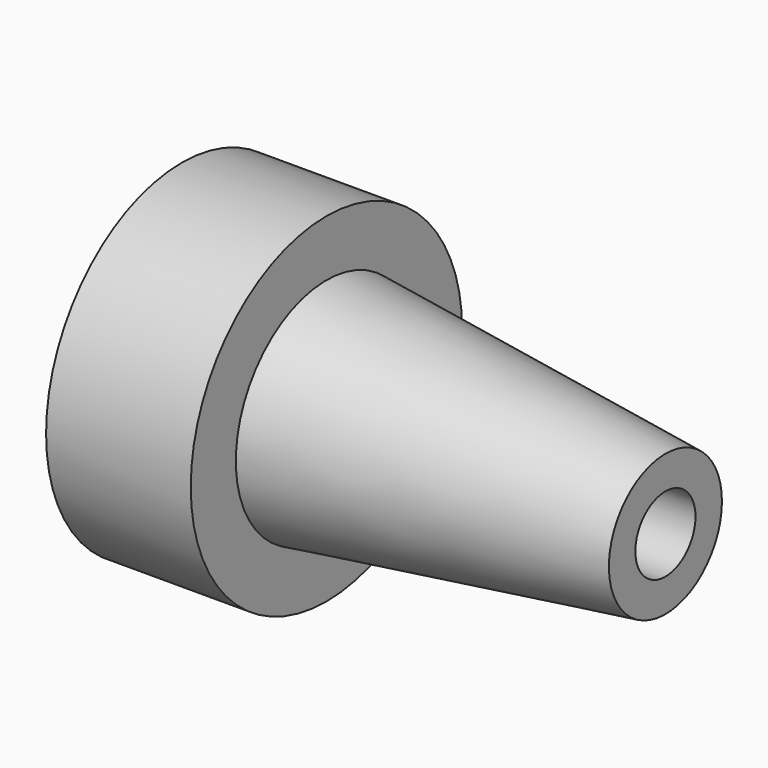
from build123d import *


with BuildPart() as f1:
    # F0 (on Top) → F1 (revolve)
    with BuildSketch(Plane.XY):
        with BuildLine():
            Line((-10.863817, 4.514776), (-14.713817, 4.514776))
            Line((-14.713817, 4.514776), (-14.713817, 2.514776))
            ThreePointArc((-14.713817, 2.514776), (-13.398503, 2.029725), (-12.447191, 1))
            Line((-12.447191, 1), (-1.843817, 1))
            Line((-1.843817, 1), (-1.843817, 1.879776))
            Line((-1.843817, 1.879776), (-10.863817, 3.014776))
            Line((-10.863817, 3.014776), (-10.863817, 4.514776))
        make_face()
    revolve(axis=Axis((-25.231563, 0, 0), (1, 0, 0)))


solid = f1.part
